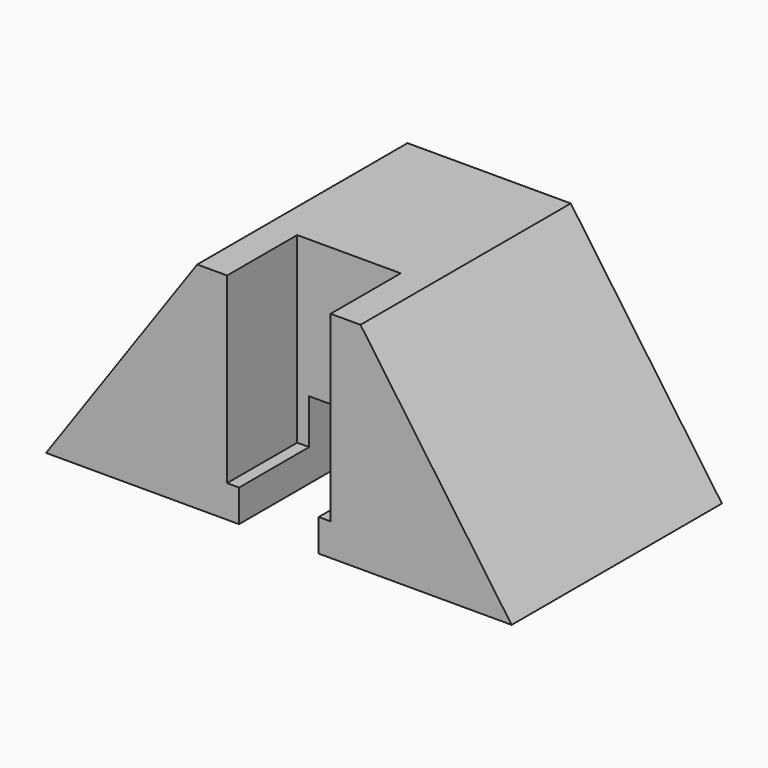
from build123d import *

# Parameters (mm, degrees)
F1_DEPTH = 33
F2_W     = 10
F2_H     = 9.678203
F3_DEPTH = 33
F4_W     = 13
F4_H     = 22.949062
F5_DEPTH = 11


with BuildPart() as f1:
    # F0 (on Front) → F1 (new body)
    with BuildSketch(Plane.XZ):
        Polygon((10.25, 26.999062), (-10.25, 26.999062), (-29.225, 0), (29.225, 0), align=None)
    extrude(amount=F1_DEPTH)

    # F2 (on face) → F3 (cut)
    with BuildSketch(Plane.XZ.offset(33)):
        with Locations((0, 4.839101)):
            Rectangle(F2_W, F2_H)
    extrude(amount=-F3_DEPTH, mode=Mode.SUBTRACT)

    # F4 (on face) → F5 (cut)
    with BuildSketch(Plane.XZ.offset(33)):
        with Locations((0, 15.524531)):
            Rectangle(F4_W, F4_H)
    extrude(amount=-F5_DEPTH, mode=Mode.SUBTRACT)


solid = f1.part
